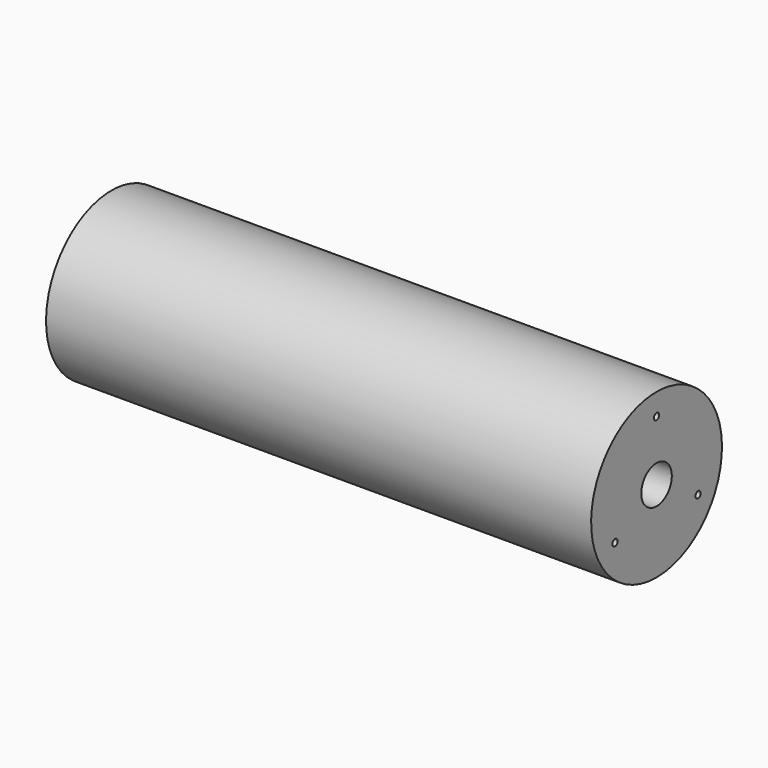
from build123d import *

# Parameters (mm, degrees)
F2_R     = 3
F3_DEPTH = 25


with BuildPart() as f1:
    # F0 (on Front) → F1 (revolve)
    with BuildSketch(Plane.XZ):
        Polygon((-500, -75), (0, -75), (0, -17.5), (-70, -17.5), (-70, 0), (-500, 0), align=None)
    revolve(axis=Axis((-285, 0, 0), (-1, 0, 0)))

    # F2 (on Right) → F3 (cut)
    with BuildSketch(Plane.YZ):
        with Locations((0, 55)):
            Circle(F2_R)
        with Locations((-47.631397, -27.5)):
            Circle(F2_R)
        with Locations((47.631397, -27.5)):
            Circle(F2_R)
    extrude(amount=-F3_DEPTH, mode=Mode.SUBTRACT)


solid = f1.part
